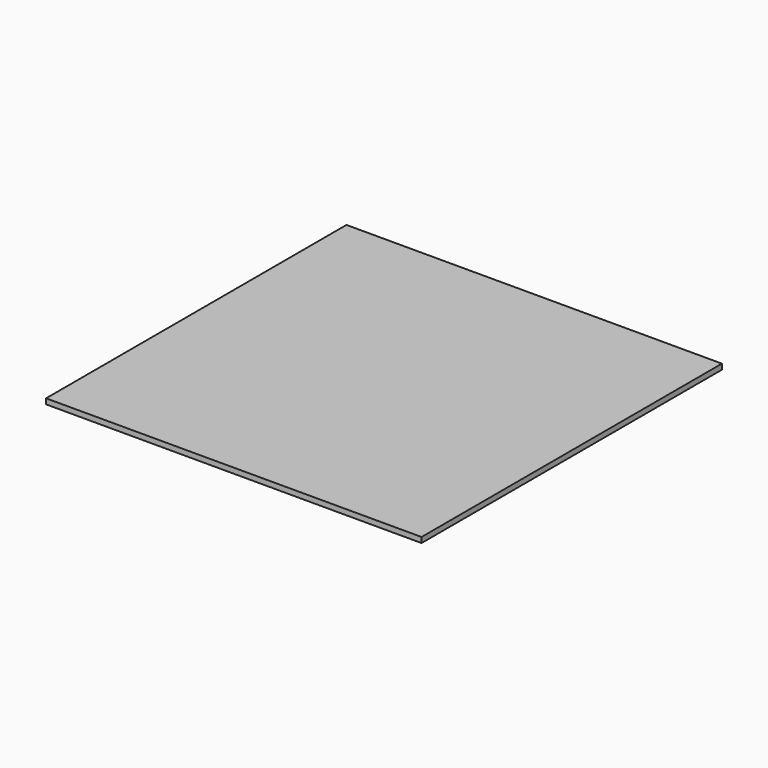
from build123d import *

# Parameters (mm, degrees)
BOX_W     = 350
BOX_H     = 350
BOX_DEPTH = 5


with BuildPart() as part:
    # Box → Box (new body)
    with BuildSketch(Plane.XY):
        with Locations((175, 175)):
            Rectangle(BOX_W, BOX_H)
    extrude(amount=BOX_DEPTH)


solid = part.part
